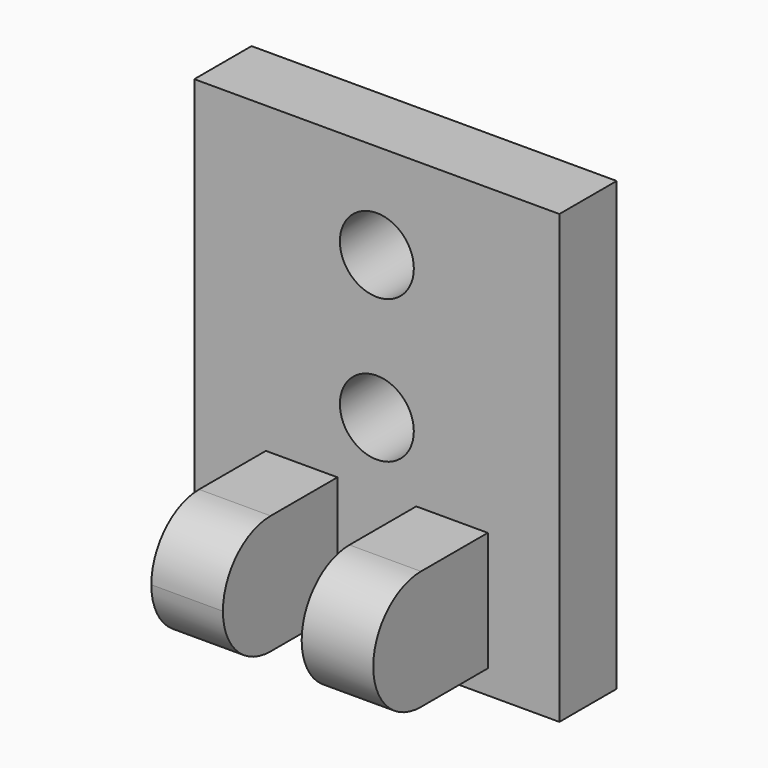
from build123d import *

# Parameters (mm, degrees)
F0_W     = 15.3
F0_H     = 18.7374445884
F1_DEPTH = 3
F2_W     = 3
F2_H     = 5
F3_DEPTH = 3.5
F5_R     = 1.55
F6_DEPTH = 5
F7_DEPTH = 3
F9_DEPTH = 3


with BuildPart() as f1:
    # F0 (on Front) → F1 (new body)
    with BuildSketch(Plane.XZ):
        Rectangle(F0_W, F0_H)
    extrude(amount=F1_DEPTH)

    # F2 (on face) → F3 (join)
    with BuildSketch(Plane.XZ.offset(3)):
        with Locations((-3.15, -5.8687222942)):
            Rectangle(F2_W, F2_H)
        with Locations((3.15, -5.8687222942)):
            Rectangle(F2_W, F2_H)
    extrude(amount=F3_DEPTH)

    # F5 (on face) → F6 (cut)
    with BuildSketch(Plane.XZ.offset(3)):
        with Locations((0, -0.6312777058)):
            Circle(F5_R)
        with Locations((0, 5.3687222942)):
            Circle(F5_R)
    extrude(amount=-F6_DEPTH, mode=Mode.SUBTRACT)

    # F4 (on face) → F7 (join)
    with BuildSketch(Plane(origin=(-4.65, 0, 0), x_dir=(0, -1, 0), z_dir=(-1, 0, 0))):
        with BuildLine():
            ThreePointArc((6.5, -8.3687222942), (8.267766953, -7.6364892472), (9, -5.8687222942))
            ThreePointArc((9, -5.8687222942), (8.267766953, -4.1009553413), (6.5, -3.3687222942))
            Line((6.5, -3.3687222942), (6.5, -8.3687222942))
        make_face()
    extrude(amount=-F7_DEPTH)

    # F8 (on face) → F9 (join)
    with BuildSketch(Plane.YZ.offset(4.65)):
        with BuildLine():
            ThreePointArc((-6.5, -8.3687222942), (-4.732233047, -7.6364892472), (-4, -5.8687222942))
            ThreePointArc((-4, -5.8687222942), (-4.732233047, -4.1009553413), (-6.5, -3.3687222942))
            Line((-6.5, -3.3687222942), (-6.5, -8.3687222942))
        make_face()
        with BuildLine():
            Line((-6.5, -8.3687222942), (-6.5, -3.3687222942))
            ThreePointArc((-6.5, -3.3687222942), (-9, -5.8687222942), (-6.5, -8.3687222942))
        make_face()
    extrude(amount=-F9_DEPTH)


solid = f1.part
